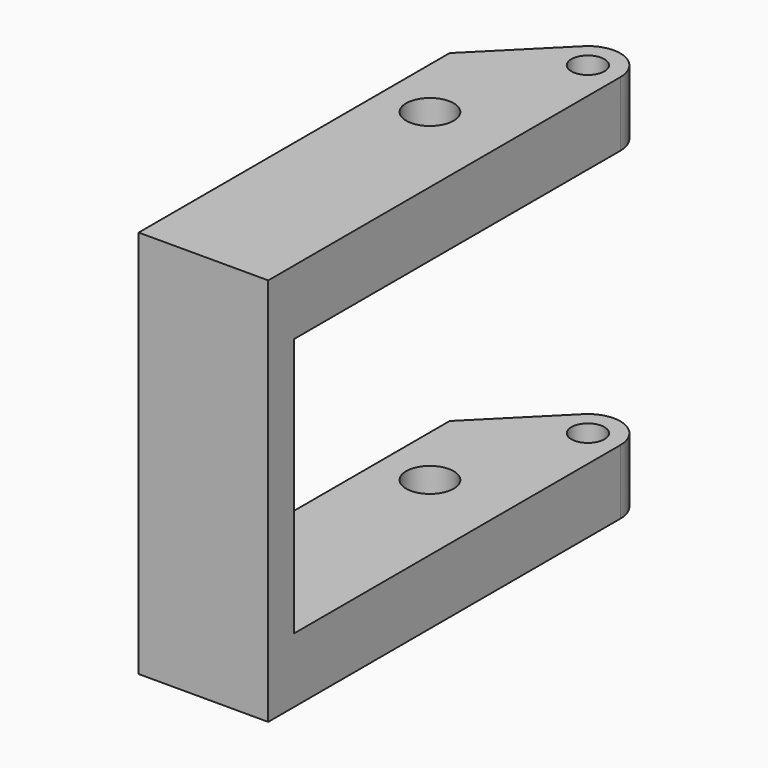
from build123d import *

# Parameters (mm, degrees)
F0_R     = 4.654194
F1_DEPTH = 76.2
F2_R     = 6.35
F3_W     = 97.109872
F3_H     = 25.4
F4_DEPTH = 25.401
F5_R     = 3.2385
F6_DEPTH = 76.201


with BuildPart() as f1:
    # F0 (on Top) → F1 (new body)
    with BuildSketch(Plane.XY):
        Polygon((0, 76.2), (0, 0), (25.4, 0), (25.4, 101.6), align=None)
        with Locations((9.850098, 59.060045)):
            Circle(F0_R, mode=Mode.SUBTRACT)
    extrude(amount=-F1_DEPTH)

    # F2
    f2_edges = [f1.edges().sort_by_distance(p)[0] for p in [
        (25.4, 101.6, -38.1),
    ]]
    fillet(f2_edges, radius=F2_R)

    # F3 (on face) → F4 (cut, through all)
    with BuildSketch(Plane(origin=(0, 0, 0), x_dir=(0, -1, 0), z_dir=(-1, 0, 0))):
        with Locations((-54.904936, -50.8)):
            Rectangle(F3_W, F3_H)
        with Locations((-54.904936, -25.4)):
            Rectangle(F3_W, F3_H)
    extrude(amount=-F4_DEPTH, mode=Mode.SUBTRACT)

    # F5 (on face) → F6 (cut, through all)
    with BuildSketch(Plane(origin=(0, 0, -76.2), x_dir=(1, 0, 0), z_dir=(0, 0, -1))):
        with Locations((19.05, -86.269744)):
            Circle(F5_R)
    extrude(amount=-F6_DEPTH, mode=Mode.SUBTRACT)


solid = f1.part
